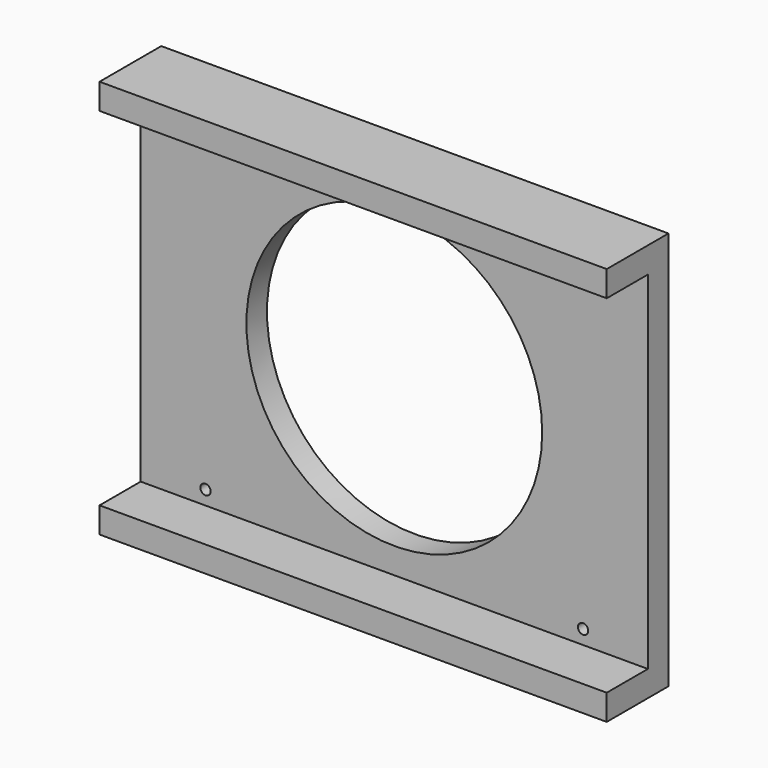
from build123d import *

# Parameters (mm, degrees)
F0_W     = 125.222
F0_H     = 98.425
F0_W_2   = 99.822
F0_H_2   = 85.979
F0_R     = 1.27
F0_R_2   = 36.5125
F1_DEPTH = 19.05
F2_W     = 559.8626548463
F2_H     = 85.725
F3_DEPTH = 12.7
F2_W_2   = 125.222
F2_R     = 1.27
F2_R_2   = 36.5125
F4_DEPTH = 12.7


with BuildPart() as f1:
    # F0 (on Front) → F1 (new body)
    with BuildSketch(Plane.XZ):
        with Locations((-326.1520862579, 56.1317810915)):
            Rectangle(F0_W, F0_H)
        with Locations((-326.1520862579, 56.1317810915)):
            Rectangle(F0_W_2, F0_H_2, mode=Mode.SUBTRACT)
        with Locations((-326.1520862579, 56.1317810915)):
            Rectangle(F0_W_2, F0_H_2)
        with Locations((-372.7610862579, 16.7490810915)):
            Circle(F0_R, mode=Mode.SUBTRACT)
        with Locations((-279.5430862579, 16.7617810915)):
            Circle(F0_R, mode=Mode.SUBTRACT)
        with Locations((-326.1520862579, 56.1317810915)):
            Circle(F0_R_2, mode=Mode.SUBTRACT)
        with Locations((-372.7610862579, 95.4890810915)):
            Circle(F0_R, mode=Mode.SUBTRACT)
        with Locations((-279.5430871231, 95.5017810915)):
            Circle(F0_R, mode=Mode.SUBTRACT)
    extrude(amount=F1_DEPTH)

    # F2 (on face) → F3 (cut)
    with BuildSketch(Plane.XZ.offset(19.05)):
        with Locations((-149.6497262269, 56.1317810915)):
            Rectangle(F2_W, F2_H)
    extrude(amount=-F3_DEPTH, mode=Mode.SUBTRACT)

    # F2 (on face) → F4 (cut)
    with BuildSketch(Plane.XZ.offset(19.05)):
        with Locations((-326.1520862579, 56.1317810915)):
            Rectangle(F2_W_2, F2_H)
        with Locations((-372.7610862579, 16.7490810915)):
            Circle(F2_R, mode=Mode.SUBTRACT)
        with Locations((-279.5430862579, 16.7617810915)):
            Circle(F2_R, mode=Mode.SUBTRACT)
        with Locations((-326.1520862579, 56.1317810915)):
            Circle(F2_R_2, mode=Mode.SUBTRACT)
        with Locations((-372.7610862579, 95.4890810915)):
            Circle(F2_R, mode=Mode.SUBTRACT)
        with Locations((-279.5430871231, 95.5017810915)):
            Circle(F2_R, mode=Mode.SUBTRACT)
    extrude(amount=-F4_DEPTH, mode=Mode.SUBTRACT)


solid = f1.part
